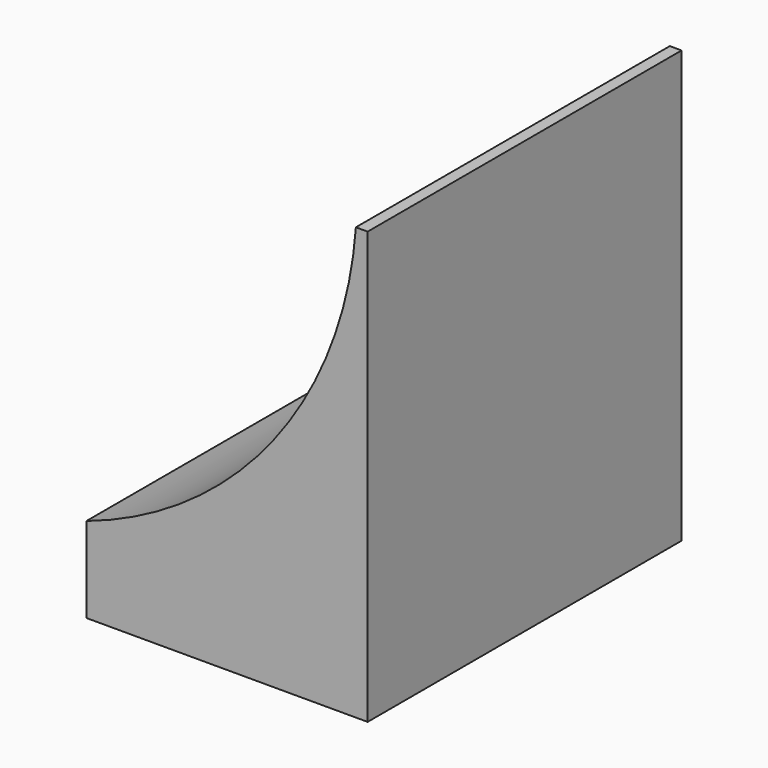
from build123d import *

# Parameters (mm, degrees)
PAD001_DEPTH = 15


with BuildPart() as batteryhold001:
    # Sketch002 → Pad001 (new body)
    with BuildSketch(Plane.XZ):
        with BuildLine():
            Line((0, 77.5), (10.75, 77.5))
            Line((10.75, 77.5), (10.75, 74.23403))
            ThreePointArc((10.75, 74.23403), (3.593187, 69.178911), (0.45, 61))
            Line((0, 61), (0.45, 61))
            Line((0, 77.5), (0, 61))
        make_face()
    extrude(amount=PAD001_DEPTH)


with BuildPart() as batteryhold001_1:
    # Body001 placement: moved
    add(batteryhold001.part.moved(Location((0, 24, 0))))


with BuildPart() as part_mirroring003:
    # Part__Mirroring003: instance of batteryHold001
    add(batteryhold001_1.part.mirror(Plane(origin=(0, 0, 0), x_dir=(0, 1, 0), z_dir=(0, 0, 1))))


with BuildPart() as part_mirroring003_1:
    # Part__Mirroring003 placement: moved
    add(part_mirroring003.part.moved(Location((0, 0, 74.5))))


with BuildPart() as part_mirroring004:
    # Part__Mirroring004: instance of Part__Mirroring003
    add(part_mirroring003_1.part.mirror(Plane(origin=(0, 0, 0), x_dir=(0, -1, 0), z_dir=(1, 0, 0))))


with BuildPart() as part_mirroring004_1:
    # Part__Mirroring004 placement: moved
    add(part_mirroring004.part.moved(Location((78, 0, 0))))


solid = part_mirroring004_1.part
